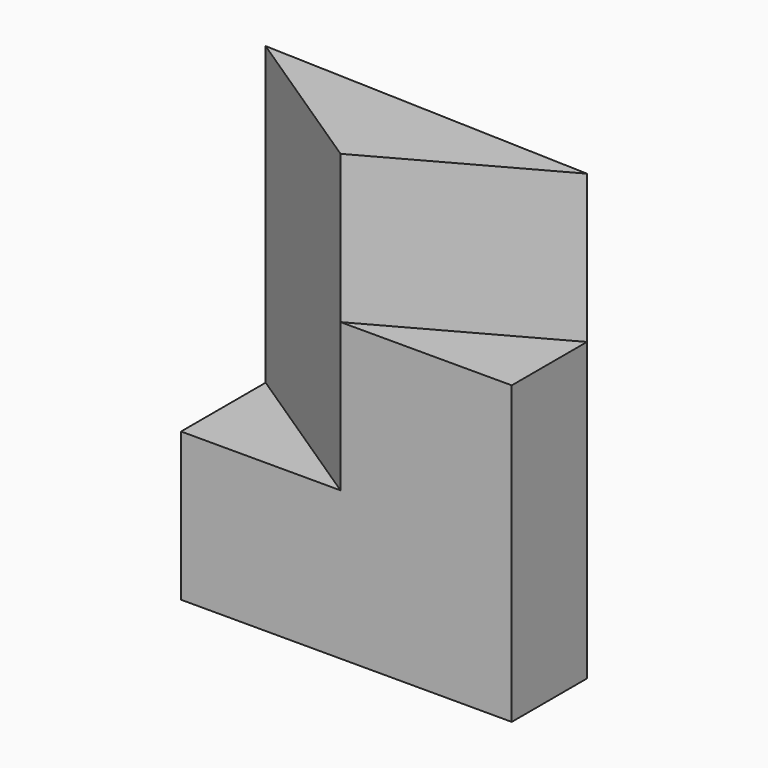
from build123d import *

# Parameters (mm, degrees)
F1_DEPTH = 25.4
F2_DEPTH = 76.2
F3_DEPTH = 50.8


with BuildPart() as f1:
    # F0 (on Top) → F1 (new body)
    with BuildSketch(Plane.XY):
        Polygon((-39.285485, 43.026961), (-39.285485, 24.895199), (-11.943938, 24.895199), align=None)
    extrude(amount=F1_DEPTH)

    # F0 (on Top) → F2 (join)
    with BuildSketch(Plane.XY):
        Polygon((-39.285485, 43.026961), (-11.943938, 24.895199), (17.412249, 41.012321), align=None)
    extrude(amount=F2_DEPTH)

    # F0 (on Top) → F3 (join)
    with BuildSketch(Plane.XY):
        Polygon((17.412249, 41.012321), (-11.943938, 24.895199), (17.412249, 24.895199), align=None)
    extrude(amount=F3_DEPTH)


solid = f1.part
